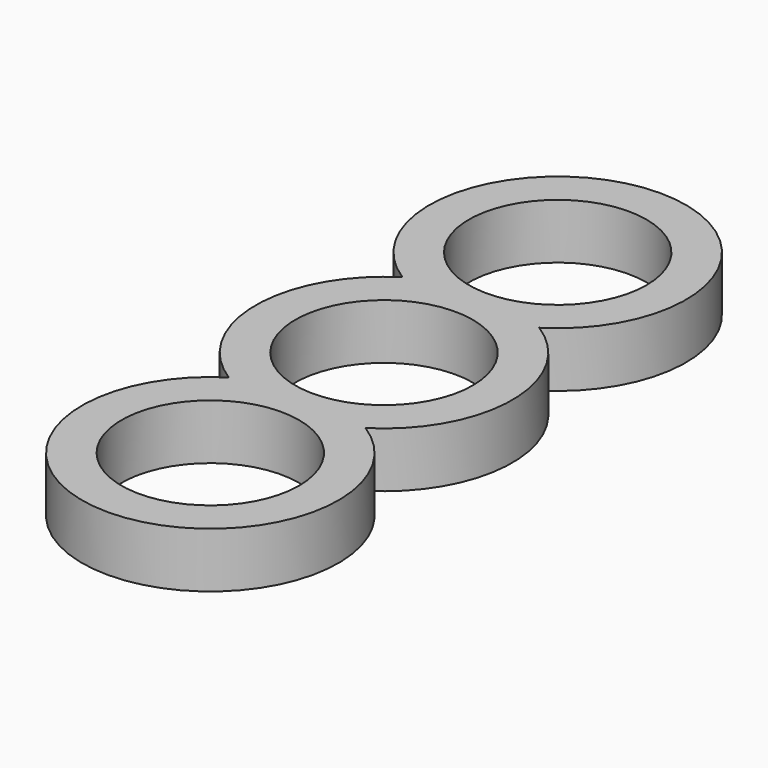
from build123d import *

# Parameters (mm, degrees)
F0_R     = 11.25
F1_DEPTH = 7


with BuildPart() as f1:
    # F0 (on Top) → F1 (new body)
    with BuildSketch(Plane.XY):
        with BuildLine():
            ThreePointArc((8.660254, -13.75), (16.25, 0), (8.660254, 13.75))
            ThreePointArc((8.660254, 13.75), (0, 43.75), (-8.660254, 13.75))
            ThreePointArc((-8.660254, 13.75), (-16.25, 0), (-8.660254, -13.75))
            ThreePointArc((-8.660254, -13.75), (0, -43.75), (8.660254, -13.75))
        make_face()
        with Locations((0, -27.5)):
            Circle(F0_R, mode=Mode.SUBTRACT)
        Circle(F0_R, mode=Mode.SUBTRACT)
        with Locations((0, 27.5)):
            Circle(F0_R, mode=Mode.SUBTRACT)
    extrude(amount=F1_DEPTH)


solid = f1.part
